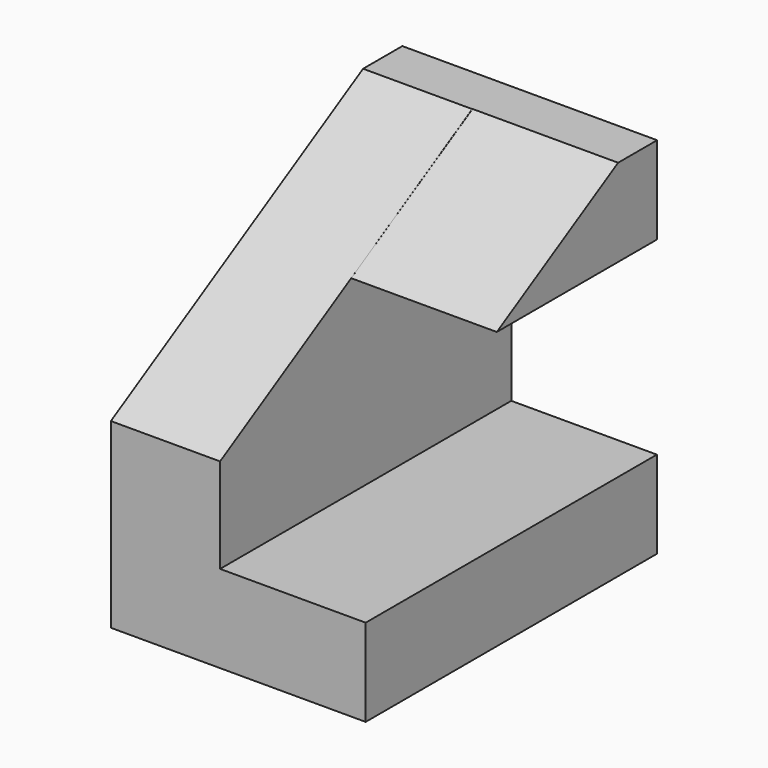
from build123d import *

# Parameters (mm, degrees)
F0_W     = 50
F0_H     = 50
F1_DEPTH = 15
F2_SIZE2 = 43.30127
F2_SIZE  = 25
F4_DEPTH = 35
F5_W     = 50
F5_H     = 12
F6_DEPTH = 35


with BuildPart() as f1:
    # F0 (on Right) → F1 (new body)
    with BuildSketch(Plane.YZ):
        Rectangle(F0_W, F0_H)
    extrude(amount=F1_DEPTH)

    # F2
    f2_edges = [f1.edges().sort_by_distance(p)[0] for p in [
        (7.5, -25, 25),
    ]]
    chamfer(f2_edges, length=F2_SIZE, length2=F2_SIZE2)

    # F3 (on Right) → F4 (join)
    with BuildSketch(Plane.YZ):
        Polygon((-2.48334, 13), (25.0436, 13), (25.0436, 25), (18.3446, 25), align=None)
    extrude(amount=F4_DEPTH)

    # F5 (on Right) → F6 (join)
    with BuildSketch(Plane.YZ):
        with Locations((0, -19)):
            Rectangle(F5_W, F5_H)
    extrude(amount=F6_DEPTH)


solid = f1.part
